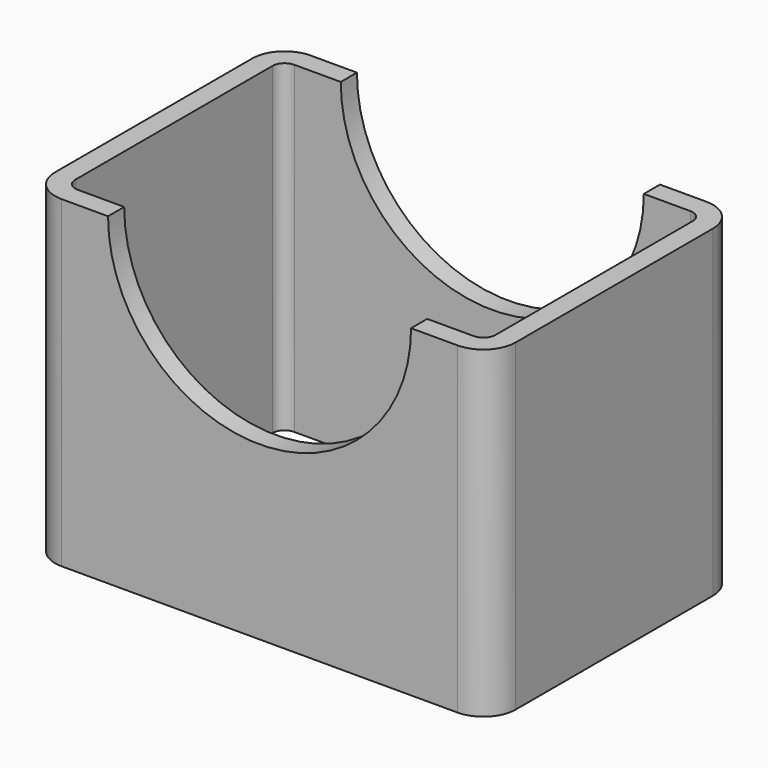
from build123d import *

# Parameters (mm, degrees)
F1_DEPTH = 20.32
F2_R     = 9.525
F3_DEPTH = 19.559


with BuildPart() as f1:
    # F0 (on Top) → F1 (new body)
    with BuildSketch(Plane.XY):
        with BuildLine():
            ThreePointArc((14.478, 7.747), (13.882841, 9.183841), (12.446, 9.779))
            Line((12.446, 9.779), (-12.446, 9.779))
            ThreePointArc((-12.446, 9.779), (-13.882841, 9.183841), (-14.478, 7.747))
            Line((-14.478, 7.747), (-14.478, -7.747))
            ThreePointArc((-14.478, -7.747), (-13.882841, -9.183841), (-12.446, -9.779))
            Line((-12.446, -9.779), (12.446, -9.779))
            ThreePointArc((12.446, -9.779), (13.882841, -9.183841), (14.478, -7.747))
            Line((14.478, -7.747), (14.478, 7.747))
        make_face()
        with BuildLine():
            Line((-12.446, 8.509), (12.446, 8.509))
            ThreePointArc((12.446, 8.509), (12.984815, 8.285815), (13.208, 7.747))
            Line((13.208, 7.747), (13.208, -7.747))
            ThreePointArc((13.208, -7.747), (12.984815, -8.285815), (12.446, -8.509))
            Line((12.446, -8.509), (-12.446, -8.509))
            ThreePointArc((-12.446, -8.509), (-12.984815, -8.285815), (-13.208, -7.747))
            Line((-13.208, -7.747), (-13.208, 7.747))
            ThreePointArc((-13.208, 7.747), (-12.984815, 8.285815), (-12.446, 8.509))
        make_face(mode=Mode.SUBTRACT)
    extrude(amount=F1_DEPTH)

    # F2 (on face) → F3 (cut, through all)
    with BuildSketch(Plane.XZ.offset(9.779)):
        with Locations((0, 20.32)):
            Circle(F2_R)
    extrude(amount=-F3_DEPTH, mode=Mode.SUBTRACT)


solid = f1.part
